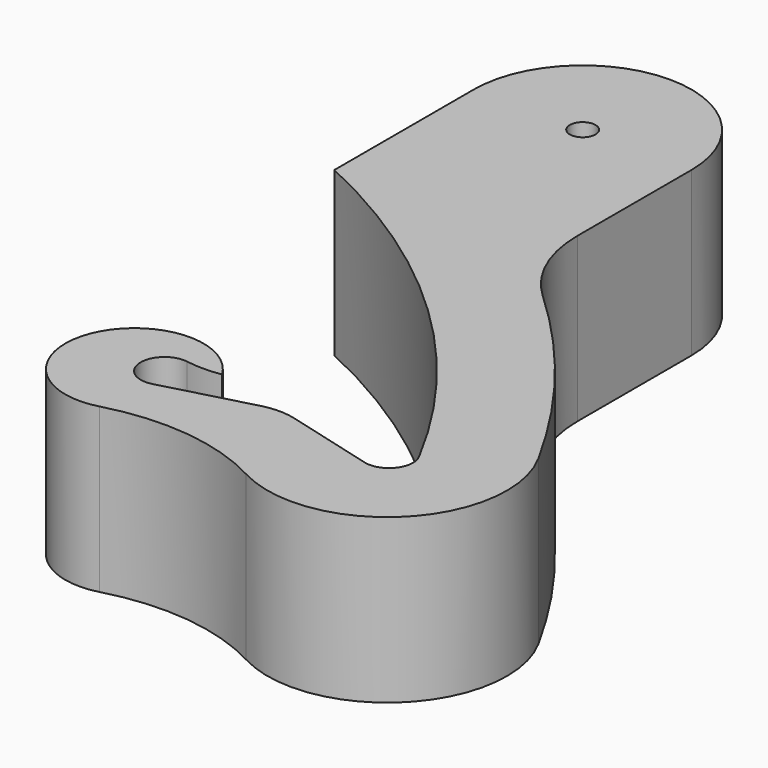
from build123d import *

# Parameters (mm, degrees)
F0_R     = 0.75
F1_DEPTH = 9.525


with BuildPart() as f1:
    # F0 (on Top) → F1 (new body)
    with BuildSketch(Plane.XY):
        with BuildLine():
            ThreePointArc((-6.35, 20.32), (5.610441, 12.187504), (14.326781, 0.645621))
            ThreePointArc((14.326781, 0.645621), (14.181673, -0.867587), (12.737359, -1.341731))
            Line((12.737359, -1.341731), (7.534538, 0.05236))
            ThreePointArc((7.534538, 0.05236), (6.548438, 0.182183), (5.562337, 0.05236))
            Line((5.562337, 0.05236), (0.359516, -1.341731))
            ThreePointArc((0.359516, -1.341731), (-1.387288, -0.070193), (0.22225, 1.371167))
            ThreePointArc((0.22225, 1.371167), (1.23825, 1.28936), (2.25425, 1.371167))
            ThreePointArc((2.25425, 1.371167), (-4.941619, 0.802762), (-0.127359, -4.575576))
            ThreePointArc((-0.127359, -4.575576), (4.667079, -4.191942), (9.260346, -5.618726))
            ThreePointArc((9.260346, -5.618726), (17.518621, -4.378812), (18.686703, 3.889928))
            ThreePointArc((18.686703, 3.889928), (14.256557, 10.630943), (8.79672, 16.568757))
            ThreePointArc((8.79672, 16.568757), (6.988425, 19.110343), (6.35, 22.163539))
            Line((6.35, 22.163539), (6.35, 30.48))
            ThreePointArc((6.35, 30.48), (0, 36.83), (-6.35, 30.48))
            Line((-6.35, 30.48), (-6.35, 20.32))
        make_face()
        with Locations((0, 30.48)):
            Circle(F0_R, mode=Mode.SUBTRACT)
    extrude(amount=F1_DEPTH)


solid = f1.part
